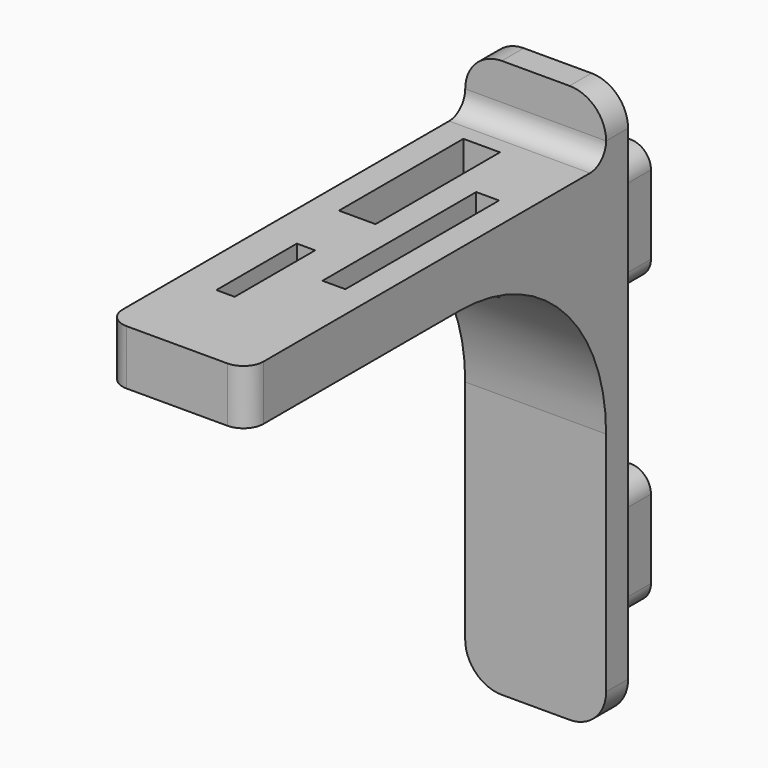
from build123d import *

# Parameters (mm, degrees)
SKETCH_W      = 15.4
SKETCH_H      = 61
PAD_DEPTH     = 3
FILLET_R      = 4
PAD001_DEPTH  = 5
PAD002_DEPTH  = 5
SKETCH003_W   = 15.4
SKETCH003_H   = 6
PAD003_DEPTH  = 49
FILLET001_R   = 2.2
FILLET002_R   = 20
FILLET003_R   = 2.2
SKETCH004_W   = 4
SKETCH004_H   = 17
SKETCH004_W_2 = 2
SKETCH004_H_2 = 11
SKETCH004_W_3 = 2.5
SKETCH004_H_3 = 21
POCKET_DEPTH  = 54.801


with BuildPart() as part:
    # Sketch → Pad (new body)
    with BuildSketch(Plane.XZ):
        Rectangle(SKETCH_W, SKETCH_H)
    extrude(amount=PAD_DEPTH)

    # Fillet
    fillet_edges = [part.edges().sort_by_distance(p)[0] for p in [
        (7.7, -1.5, 30.5),
        (-7.7, -1.5, 30.5),
        (7.7, -1.5, -30.5),
        (-7.7, -1.5, -30.5),
    ]]
    fillet(fillet_edges, radius=FILLET_R)

    # Sketch001 (on Face2 of Fillet) → Pad001 (join)
    with BuildSketch(Plane(origin=(0, 0, 0), x_dir=(1, 0, 0), z_dir=(0, 1, 0))):
        with BuildLine():
            Line((-2.2, 16.65), (-2.2, 14.55))
            ThreePointArc((-2.2, 14.55), (0, 12.35), (2.2, 14.55))
            Line((2.2, 16.65), (2.2, 14.55))
            ThreePointArc((2.2, 16.65), (0, 18.85), (-2.2, 16.65))
        make_face()
        with BuildLine():
            Line((-2.2, -14.55), (-2.2, -16.65))
            ThreePointArc((-2.2, -16.65), (0, -18.85), (2.2, -16.65))
            Line((2.2, -14.55), (2.2, -16.65))
            ThreePointArc((2.2, -14.55), (0, -12.35), (-2.2, -14.55))
        make_face()
    extrude(amount=PAD001_DEPTH)

    # Sketch002 (on Face19 of Pad001) → Pad002 (join)
    with BuildSketch(Plane(origin=(0, 5, 0), x_dir=(1, 0, 0), z_dir=(0, 1, 0))):
        with BuildLine():
            Line((-2.2, 23.15), (-2.2, 14.55))
            ThreePointArc((-2.2, 14.55), (0, 12.35), (2.2, 14.55))
            Line((2.2, 23.15), (2.2, 14.55))
            ThreePointArc((2.2, 23.15), (0, 25.35), (-2.2, 23.15))
        make_face()
        with BuildLine():
            Line((-2.2, -8.05), (-2.2, -16.65))
            ThreePointArc((-2.2, -16.65), (0, -18.85), (2.2, -16.65))
            Line((2.2, -8.05), (2.2, -16.65))
            ThreePointArc((2.2, -8.05), (0, -5.85), (-2.2, -8.05))
        make_face()
    extrude(amount=PAD002_DEPTH)

    # Sketch003 (on Face5 of Pad002) → Pad003 (join)
    with BuildSketch(Plane.XZ.offset(3)):
        with Locations((0, 21.3)):
            Rectangle(SKETCH003_W, SKETCH003_H)
    extrude(amount=PAD003_DEPTH)

    # Fillet001
    fillet001_edges = [part.edges().sort_by_distance(p)[0] for p in [
        (7.7, -52, 21.3),
        (-7.7, -52, 21.3),
    ]]
    fillet(fillet001_edges, radius=FILLET001_R)

    # Fillet002
    fillet002_edges = [part.edges().sort_by_distance(p)[0] for p in [
        (0, -3, 18.3),
    ]]
    fillet(fillet002_edges, radius=FILLET002_R)

    # Fillet003
    fillet003_edges = [part.edges().sort_by_distance(p)[0] for p in [
        (0, -3, 24.3),
    ]]
    fillet(fillet003_edges, radius=FILLET003_R)

    # Sketch004 (on Face2 of Fillet003) → Pocket (cut, through all)
    with BuildSketch(Plane(origin=(0, 0, 24.3), x_dir=(-1, 0, 0), z_dir=(0, 0, 1))):
        with Locations((2.7, 15.5)):
            Rectangle(SKETCH004_W, SKETCH004_H)
        with Locations((2.7, 36.5)):
            Rectangle(SKETCH004_W_2, SKETCH004_H_2)
        with Locations((-3.55, 24.5)):
            Rectangle(SKETCH004_W_3, SKETCH004_H_3)
    extrude(amount=-POCKET_DEPTH, mode=Mode.SUBTRACT)


solid = part.part
